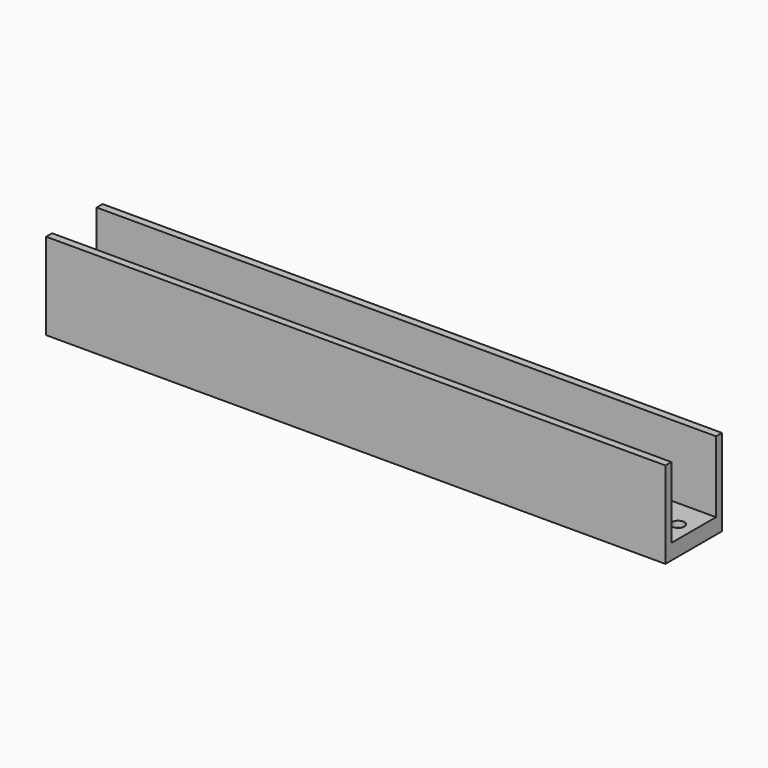
from build123d import *

# Parameters (mm, degrees)
F0_W     = 200
F0_H     = 18
F0_R     = 2
F1_DEPTH = 2
F2_W     = 200
F2_H     = 2.4
F3_DEPTH = 25
F4_W     = 200
F4_H     = 22.8
F5_DEPTH = 3


with BuildPart() as f1:
    # F0 (on Top) → F1 (new body)
    with BuildSketch(Plane.XY):
        with Locations((100, 9)):
            Rectangle(F0_W, F0_H)
        with Locations((5, 9)):
            Circle(F0_R, mode=Mode.SUBTRACT)
        with BuildLine():
            Line((12, 11), (93, 11))
            ThreePointArc((93, 11), (95, 9), (93, 7))
            Line((93, 7), (12, 7))
            ThreePointArc((12, 7), (10, 9), (12, 11))
        make_face(mode=Mode.SUBTRACT)
        with Locations((100, 9)):
            Circle(F0_R, mode=Mode.SUBTRACT)
        with BuildLine():
            Line((107, 11), (188, 11))
            ThreePointArc((188, 11), (190, 9), (188, 7))
            Line((188, 7), (107, 7))
            ThreePointArc((107, 7), (105, 9), (107, 11))
        make_face(mode=Mode.SUBTRACT)
        with Locations((195, 9)):
            Circle(F0_R, mode=Mode.SUBTRACT)
    extrude(amount=F1_DEPTH)

    # F2 (on face) → F3 (join)
    with BuildSketch(Plane(origin=(0, 0, 0), x_dir=(1, 0, 0), z_dir=(0, 0, -1))):
        with Locations((100, 1.2)):
            Rectangle(F2_W, F2_H)
        with Locations((100, -19.2)):
            Rectangle(F2_W, F2_H)
    extrude(amount=-F3_DEPTH)

    # F4 (on face) → F5 (join)
    with BuildSketch(Plane(origin=(0, 0, 0), x_dir=(1, 0, 0), z_dir=(0, 0, -1))):
        with Locations((100, -9)):
            Rectangle(F4_W, F4_H)
    extrude(amount=F5_DEPTH)


solid = f1.part
